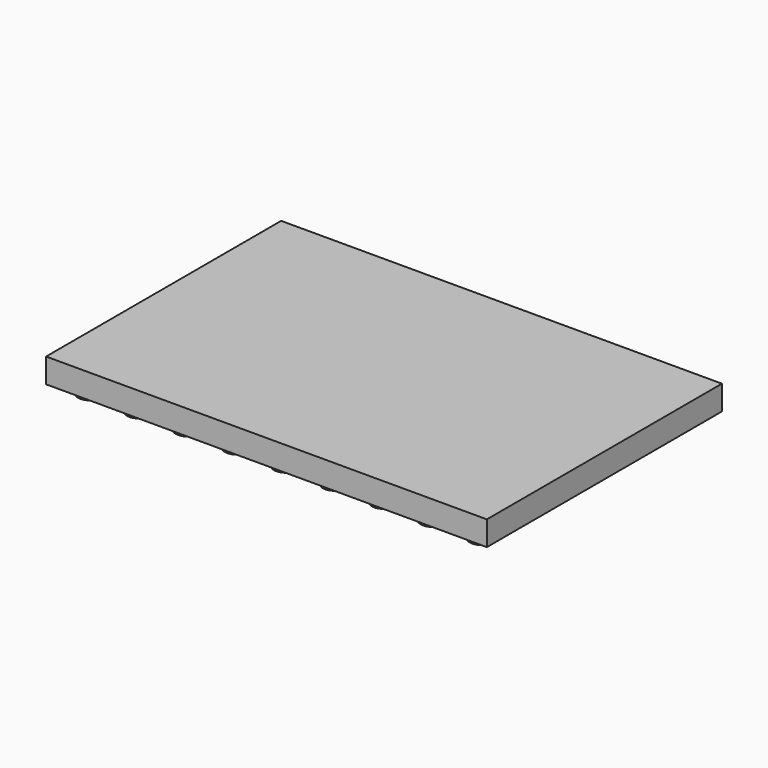
from build123d import *

# Parameters (mm, degrees)
F0_W     = 9
F0_H     = 6
F1_DEPTH = 0.5
F2_R     = 0.25
F3_DEPTH = 0.2


with BuildPart() as f1:
    # F0 (on Top) → F1 (new body)
    with BuildSketch(Plane.XY):
        with Locations((4.5, 3)):
            Rectangle(F0_W, F0_H)
    extrude(amount=F1_DEPTH)

    # F2 (on face) → F3 (join)
    with BuildSketch(Plane(origin=(0, 0, 0), x_dir=(1, 0, 0), z_dir=(0, 0, -1))):
        with Locations((0.5, -0.5)):
            Circle(F2_R)
        with Locations((1.5, -0.5)):
            Circle(F2_R)
        with Locations((2.5, -0.5)):
            Circle(F2_R)
        with Locations((3.5, -0.5)):
            Circle(F2_R)
        with Locations((4.5, -0.5)):
            Circle(F2_R)
        with Locations((5.5, -0.5)):
            Circle(F2_R)
        with Locations((6.5, -0.5)):
            Circle(F2_R)
        with Locations((7.5, -0.5)):
            Circle(F2_R)
        with Locations((8.5, -0.5)):
            Circle(F2_R)
        with Locations((8.5, -1.5)):
            Circle(F2_R)
        with Locations((7.5, -1.5)):
            Circle(F2_R)
        with Locations((6.5, -1.5)):
            Circle(F2_R)
        with Locations((5.5, -1.5)):
            Circle(F2_R)
        with Locations((4.5, -1.5)):
            Circle(F2_R)
        with Locations((3.5, -1.5)):
            Circle(F2_R)
        with Locations((2.5, -1.5)):
            Circle(F2_R)
        with Locations((1.5, -1.5)):
            Circle(F2_R)
        with Locations((0.5, -1.5)):
            Circle(F2_R)
        with Locations((8.5, -2.5)):
            Circle(F2_R)
        with Locations((7.5, -2.5)):
            Circle(F2_R)
        with Locations((6.5, -2.5)):
            Circle(F2_R)
        with Locations((5.5, -2.5)):
            Circle(F2_R)
        with Locations((4.5, -2.5)):
            Circle(F2_R)
        with Locations((3.5, -2.5)):
            Circle(F2_R)
        with Locations((2.5, -2.5)):
            Circle(F2_R)
        with Locations((1.5, -2.5)):
            Circle(F2_R)
        with Locations((0.5, -2.5)):
            Circle(F2_R)
        with Locations((8.5, -3.5)):
            Circle(F2_R)
        with Locations((7.5, -3.5)):
            Circle(F2_R)
        with Locations((6.5, -3.5)):
            Circle(F2_R)
        with Locations((5.5, -3.5)):
            Circle(F2_R)
        with Locations((4.5, -3.5)):
            Circle(F2_R)
        with Locations((3.5, -3.5)):
            Circle(F2_R)
        with Locations((2.5, -3.5)):
            Circle(F2_R)
        with Locations((1.5, -3.5)):
            Circle(F2_R)
        with Locations((0.5, -3.5)):
            Circle(F2_R)
        with Locations((8.5, -4.5)):
            Circle(F2_R)
        with Locations((7.5, -4.5)):
            Circle(F2_R)
        with Locations((6.5, -4.5)):
            Circle(F2_R)
        with Locations((5.5, -4.5)):
            Circle(F2_R)
        with Locations((4.5, -4.5)):
            Circle(F2_R)
        with Locations((3.5, -4.5)):
            Circle(F2_R)
        with Locations((2.5, -4.5)):
            Circle(F2_R)
        with Locations((1.5, -4.5)):
            Circle(F2_R)
        with Locations((0.5, -4.5)):
            Circle(F2_R)
        with Locations((8.5, -5.5)):
            Circle(F2_R)
        with Locations((7.5, -5.5)):
            Circle(F2_R)
        with Locations((6.5, -5.5)):
            Circle(F2_R)
        with Locations((5.5, -5.5)):
            Circle(F2_R)
        with Locations((4.5, -5.5)):
            Circle(F2_R)
        with Locations((3.5, -5.5)):
            Circle(F2_R)
        with Locations((2.5, -5.5)):
            Circle(F2_R)
        with Locations((1.5, -5.5)):
            Circle(F2_R)
        with Locations((0.5, -5.5)):
            Circle(F2_R)
    extrude(amount=F3_DEPTH)


solid = f1.part
